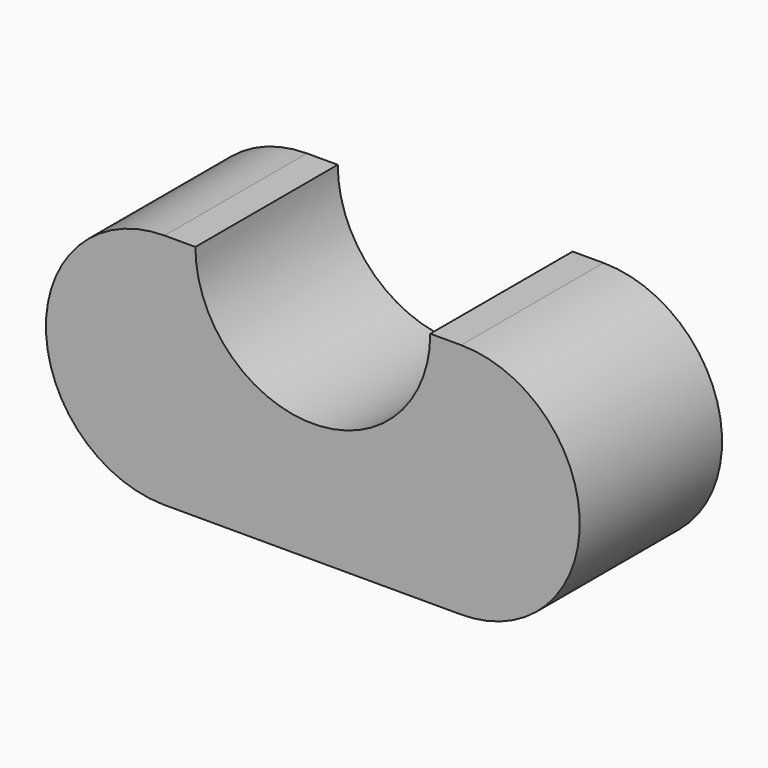
from build123d import *

# Parameters (mm, degrees)
F1_DEPTH = 30


with BuildPart() as f1:
    # F0 (on Front) → F1 (new body)
    with BuildSketch(Plane.XZ):
        with BuildLine():
            Line((-20, 20), (-25, 20))
            ThreePointArc((-25, 20), (-44.999572, 0.130838), (-25.261669, -19.998288))
            Line((-25.261669, -19.998288), (-24.738331, -19.998288))
            Line((-24.738331, -19.998288), (24.738331, -19.998288))
            ThreePointArc((24.738331, -19.998288), (44.999572, -0.130838), (25, 20))
            Line((25, 20), (20, 20))
            Line((20, 20), (19.800692, 20))
            ThreePointArc((19.800692, 20), (0, 0.199308), (-19.800692, 20))
            Line((-19.800692, 20), (-20, 20))
        make_face()
        with BuildLine():
            Line((-24.738331, -19.998288), (-25.261669, -19.998288))
            ThreePointArc((-25.261669, -19.998288), (-25, -20), (-24.738331, -19.998288))
        make_face()
        with BuildLine():
            Line((-20, 20), (-25, 20))
            ThreePointArc((-25, 20), (-44.999572, 0.130838), (-25.261669, -19.998288))
            Line((-25.261669, -19.998288), (-24.738331, -19.998288))
            Line((-24.738331, -19.998288), (24.738331, -19.998288))
            ThreePointArc((24.738331, -19.998288), (44.999572, -0.130838), (25, 20))
            Line((25, 20), (20, 20))
            Line((20, 20), (19.800692, 20))
            ThreePointArc((19.800692, 20), (0, 0.199308), (-19.800692, 20))
            Line((-19.800692, 20), (-20, 20))
        make_face()
    extrude(amount=F1_DEPTH)


solid = f1.part
